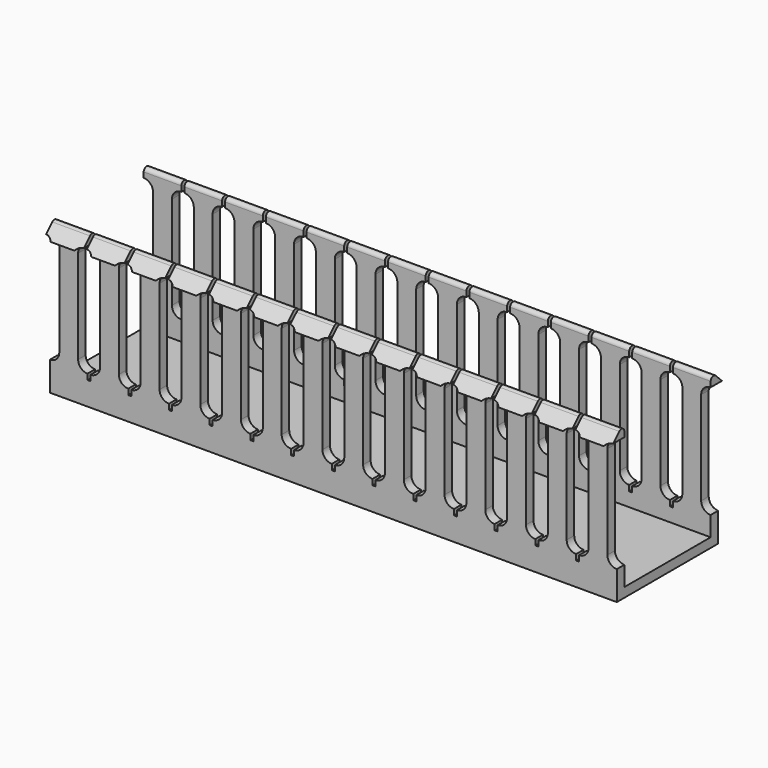
from build123d import *

# Parameters (mm, degrees)
F0_W      = 42.672
F0_H      = 3.175
F1_DEPTH  = 191.008
F2_W      = 191.008
F2_H      = 3.175
F3_DEPTH  = 4.699
F5_DEPTH  = 3.175
F7_DEPTH  = 191.008
F8_DEPTH  = 191.009
F10_DEPTH = 5.8176
F12_DEPTH = 5.8176


with BuildPart() as f1:
    # F0 (on Right) → F1 (new body)
    with BuildSketch(Plane.YZ):
        Rectangle(F0_W, F0_H)
    extrude(amount=-F1_DEPTH)

    # F2 (on face) → F3 (join)
    with BuildSketch(Plane.XY.offset(1.5875)):
        with Locations((-95.504, 19.7485)):
            Rectangle(F2_W, F2_H)
        with Locations((-95.504, -19.7485)):
            Rectangle(F2_W, F2_H)
    extrude(amount=F3_DEPTH)

    # F4 (on face) → F5 (join)
    with BuildSketch(Plane.XZ.offset(21.336)):
        with BuildLine():
            Line((-9.525, 42.8625), (-9.525, 11.3665))
            ThreePointArc((-9.525, 11.3665), (-10.454936, 9.121436), (-12.7, 8.1915))
            Line((-12.7, 8.1915), (-12.7, 6.2865))
            Line((-12.7, 6.2865), (0, 6.2865))
            Line((0, 6.2865), (0, 8.1915))
            ThreePointArc((0, 8.1915), (-2.245064, 9.121436), (-3.175, 11.3665))
            Line((-3.175, 11.3665), (-3.175, 42.8625))
            ThreePointArc((-3.175, 42.8625), (-2.245064, 45.107564), (0, 46.0375))
            Line((0, 46.0375), (0, 49.2125))
            Line((0, 49.2125), (-12.7, 49.2125))
            Line((-12.7, 49.2125), (-12.7, 46.0375))
            ThreePointArc((-12.7, 46.0375), (-10.454936, 45.107564), (-9.525, 42.8625))
        make_face()
        with BuildLine():
            Line((-26.416, 6.2865), (-13.716, 6.2865))
            Line((-13.716, 6.2865), (-13.716, 8.1915))
            ThreePointArc((-13.716, 8.1915), (-15.961064, 9.121436), (-16.891, 11.3665))
            Line((-16.891, 11.3665), (-16.891, 42.8625))
            ThreePointArc((-16.891, 42.8625), (-15.961064, 45.107564), (-13.716, 46.0375))
            Line((-13.716, 46.0375), (-13.716, 49.2125))
            Line((-13.716, 49.2125), (-26.416, 49.2125))
            Line((-26.416, 49.2125), (-26.416, 46.0375))
            ThreePointArc((-26.416, 46.0375), (-24.170936, 45.107564), (-23.241, 42.8625))
            Line((-23.241, 42.8625), (-23.241, 11.3665))
            ThreePointArc((-23.241, 11.3665), (-24.170936, 9.121436), (-26.416, 8.1915))
            Line((-26.416, 8.1915), (-26.416, 6.2865))
        make_face()
        with BuildLine():
            Line((-40.132, 6.2865), (-27.432, 6.2865))
            Line((-27.432, 6.2865), (-27.432, 8.1915))
            ThreePointArc((-27.432, 8.1915), (-29.677064, 9.121436), (-30.607, 11.3665))
            Line((-30.607, 11.3665), (-30.607, 42.8625))
            ThreePointArc((-30.607, 42.8625), (-29.677064, 45.107564), (-27.432, 46.0375))
            Line((-27.432, 46.0375), (-27.432, 49.2125))
            Line((-27.432, 49.2125), (-40.132, 49.2125))
            Line((-40.132, 49.2125), (-40.132, 46.0375))
            ThreePointArc((-40.132, 46.0375), (-37.886936, 45.107564), (-36.957, 42.8625))
            Line((-36.957, 42.8625), (-36.957, 11.3665))
            ThreePointArc((-36.957, 11.3665), (-37.886936, 9.121436), (-40.132, 8.1915))
            Line((-40.132, 8.1915), (-40.132, 6.2865))
        make_face()
        with BuildLine():
            Line((-53.848, 6.2865), (-41.148, 6.2865))
            Line((-41.148, 6.2865), (-41.148, 8.1915))
            ThreePointArc((-41.148, 8.1915), (-43.393064, 9.121436), (-44.323, 11.3665))
            Line((-44.323, 11.3665), (-44.323, 42.8625))
            ThreePointArc((-44.323, 42.8625), (-43.393064, 45.107564), (-41.148, 46.0375))
            Line((-41.148, 46.0375), (-41.148, 49.2125))
            Line((-41.148, 49.2125), (-53.848, 49.2125))
            Line((-53.848, 49.2125), (-53.848, 46.0375))
            ThreePointArc((-53.848, 46.0375), (-51.602936, 45.107564), (-50.673, 42.8625))
            Line((-50.673, 42.8625), (-50.673, 11.3665))
            ThreePointArc((-50.673, 11.3665), (-51.602936, 9.121436), (-53.848, 8.1915))
            Line((-53.848, 8.1915), (-53.848, 6.2865))
        make_face()
        with BuildLine():
            Line((-67.564, 6.2865), (-54.864, 6.2865))
            Line((-54.864, 6.2865), (-54.864, 8.1915))
            ThreePointArc((-54.864, 8.1915), (-57.109064, 9.121436), (-58.039, 11.3665))
            Line((-58.039, 11.3665), (-58.039, 42.8625))
            ThreePointArc((-58.039, 42.8625), (-57.109064, 45.107564), (-54.864, 46.0375))
            Line((-54.864, 46.0375), (-54.864, 49.2125))
            Line((-54.864, 49.2125), (-67.564, 49.2125))
            Line((-67.564, 49.2125), (-67.564, 46.0375))
            ThreePointArc((-67.564, 46.0375), (-65.318936, 45.107564), (-64.389, 42.8625))
            Line((-64.389, 42.8625), (-64.389, 11.3665))
            ThreePointArc((-64.389, 11.3665), (-65.318936, 9.121436), (-67.564, 8.1915))
            Line((-67.564, 8.1915), (-67.564, 6.2865))
        make_face()
        with BuildLine():
            Line((-81.28, 6.2865), (-68.58, 6.2865))
            Line((-68.58, 6.2865), (-68.58, 8.1915))
            ThreePointArc((-68.58, 8.1915), (-70.825064, 9.121436), (-71.755, 11.3665))
            Line((-71.755, 11.3665), (-71.755, 42.8625))
            ThreePointArc((-71.755, 42.8625), (-70.825064, 45.107564), (-68.58, 46.0375))
            Line((-68.58, 46.0375), (-68.58, 49.2125))
            Line((-68.58, 49.2125), (-81.28, 49.2125))
            Line((-81.28, 49.2125), (-81.28, 46.0375))
            ThreePointArc((-81.28, 46.0375), (-79.034936, 45.107564), (-78.105, 42.8625))
            Line((-78.105, 42.8625), (-78.105, 11.3665))
            ThreePointArc((-78.105, 11.3665), (-79.034936, 9.121436), (-81.28, 8.1915))
            Line((-81.28, 8.1915), (-81.28, 6.2865))
        make_face()
        with BuildLine():
            Line((-94.996, 6.2865), (-82.296, 6.2865))
            Line((-82.296, 6.2865), (-82.296, 8.1915))
            ThreePointArc((-82.296, 8.1915), (-84.541064, 9.121436), (-85.471, 11.3665))
            Line((-85.471, 11.3665), (-85.471, 42.8625))
            ThreePointArc((-85.471, 42.8625), (-84.541064, 45.107564), (-82.296, 46.0375))
            Line((-82.296, 46.0375), (-82.296, 49.2125))
            Line((-82.296, 49.2125), (-94.996, 49.2125))
            Line((-94.996, 49.2125), (-94.996, 46.0375))
            ThreePointArc((-94.996, 46.0375), (-92.750936, 45.107564), (-91.821, 42.8625))
            Line((-91.821, 42.8625), (-91.821, 11.3665))
            ThreePointArc((-91.821, 11.3665), (-92.750936, 9.121436), (-94.996, 8.1915))
            Line((-94.996, 8.1915), (-94.996, 6.2865))
        make_face()
        with BuildLine():
            Line((-108.712, 6.2865), (-96.012, 6.2865))
            Line((-96.012, 6.2865), (-96.012, 8.1915))
            ThreePointArc((-96.012, 8.1915), (-98.257064, 9.121436), (-99.187, 11.3665))
            Line((-99.187, 11.3665), (-99.187, 42.8625))
            ThreePointArc((-99.187, 42.8625), (-98.257064, 45.107564), (-96.012, 46.0375))
            Line((-96.012, 46.0375), (-96.012, 49.2125))
            Line((-96.012, 49.2125), (-108.712, 49.2125))
            Line((-108.712, 49.2125), (-108.712, 46.0375))
            ThreePointArc((-108.712, 46.0375), (-106.466936, 45.107564), (-105.537, 42.8625))
            Line((-105.537, 42.8625), (-105.537, 11.3665))
            ThreePointArc((-105.537, 11.3665), (-106.466936, 9.121436), (-108.712, 8.1915))
            Line((-108.712, 8.1915), (-108.712, 6.2865))
        make_face()
        with BuildLine():
            Line((-122.428, 8.1915), (-122.428, 6.2865))
            Line((-122.428, 6.2865), (-109.728, 6.2865))
            Line((-109.728, 6.2865), (-109.728, 8.1915))
            ThreePointArc((-109.728, 8.1915), (-111.973064, 9.121436), (-112.903, 11.3665))
            Line((-112.903, 11.3665), (-112.903, 42.8625))
            ThreePointArc((-112.903, 42.8625), (-111.973064, 45.107564), (-109.728, 46.0375))
            Line((-109.728, 46.0375), (-109.728, 49.2125))
            Line((-109.728, 49.2125), (-122.428, 49.2125))
            Line((-122.428, 49.2125), (-122.428, 46.0375))
            ThreePointArc((-122.428, 46.0375), (-120.182936, 45.107564), (-119.253, 42.8625))
            Line((-119.253, 42.8625), (-119.253, 11.3665))
            ThreePointArc((-119.253, 11.3665), (-120.182936, 9.121436), (-122.428, 8.1915))
        make_face()
        with BuildLine():
            Line((-136.144, 8.1915), (-136.144, 6.2865))
            Line((-136.144, 6.2865), (-123.444, 6.2865))
            Line((-123.444, 6.2865), (-123.444, 8.1915))
            ThreePointArc((-123.444, 8.1915), (-125.689064, 9.121436), (-126.619, 11.3665))
            Line((-126.619, 11.3665), (-126.619, 42.8625))
            ThreePointArc((-126.619, 42.8625), (-125.689064, 45.107564), (-123.444, 46.0375))
            Line((-123.444, 46.0375), (-123.444, 49.2125))
            Line((-123.444, 49.2125), (-136.144, 49.2125))
            Line((-136.144, 49.2125), (-136.144, 46.0375))
            ThreePointArc((-136.144, 46.0375), (-133.898936, 45.107564), (-132.969, 42.8625))
            Line((-132.969, 42.8625), (-132.969, 11.3665))
            ThreePointArc((-132.969, 11.3665), (-133.898936, 9.121436), (-136.144, 8.1915))
        make_face()
        with BuildLine():
            Line((-149.86, 8.1915), (-149.86, 6.2865))
            Line((-149.86, 6.2865), (-137.16, 6.2865))
            Line((-137.16, 6.2865), (-137.16, 8.1915))
            ThreePointArc((-137.16, 8.1915), (-139.405064, 9.121436), (-140.335, 11.3665))
            Line((-140.335, 11.3665), (-140.335, 42.8625))
            ThreePointArc((-140.335, 42.8625), (-139.405064, 45.107564), (-137.16, 46.0375))
            Line((-137.16, 46.0375), (-137.16, 49.2125))
            Line((-137.16, 49.2125), (-149.86, 49.2125))
            Line((-149.86, 49.2125), (-149.86, 46.0375))
            ThreePointArc((-149.86, 46.0375), (-147.614936, 45.107564), (-146.685, 42.8625))
            Line((-146.685, 42.8625), (-146.685, 11.3665))
            ThreePointArc((-146.685, 11.3665), (-147.614936, 9.121436), (-149.86, 8.1915))
        make_face()
        with BuildLine():
            Line((-163.576, 8.1915), (-163.576, 6.2865))
            Line((-163.576, 6.2865), (-150.876, 6.2865))
            Line((-150.876, 6.2865), (-150.876, 8.1915))
            ThreePointArc((-150.876, 8.1915), (-153.121064, 9.121436), (-154.051, 11.3665))
            Line((-154.051, 11.3665), (-154.051, 42.8625))
            ThreePointArc((-154.051, 42.8625), (-153.121064, 45.107564), (-150.876, 46.0375))
            Line((-150.876, 46.0375), (-150.876, 49.2125))
            Line((-150.876, 49.2125), (-163.576, 49.2125))
            Line((-163.576, 49.2125), (-163.576, 46.0375))
            ThreePointArc((-163.576, 46.0375), (-161.330936, 45.107564), (-160.401, 42.8625))
            Line((-160.401, 42.8625), (-160.401, 11.3665))
            ThreePointArc((-160.401, 11.3665), (-161.330936, 9.121436), (-163.576, 8.1915))
        make_face()
        with BuildLine():
            Line((-177.292, 8.1915), (-177.292, 6.2865))
            Line((-177.292, 6.2865), (-164.592, 6.2865))
            Line((-164.592, 6.2865), (-164.592, 8.1915))
            ThreePointArc((-164.592, 8.1915), (-166.837064, 9.121436), (-167.767, 11.3665))
            Line((-167.767, 11.3665), (-167.767, 42.8625))
            ThreePointArc((-167.767, 42.8625), (-166.837064, 45.107564), (-164.592, 46.0375))
            Line((-164.592, 46.0375), (-164.592, 49.2125))
            Line((-164.592, 49.2125), (-177.292, 49.2125))
            Line((-177.292, 49.2125), (-177.292, 46.0375))
            ThreePointArc((-177.292, 46.0375), (-175.046936, 45.107564), (-174.117, 42.8625))
            Line((-174.117, 42.8625), (-174.117, 11.3665))
            ThreePointArc((-174.117, 11.3665), (-175.046936, 9.121436), (-177.292, 8.1915))
        make_face()
        with BuildLine():
            Line((-191.008, 8.1915), (-191.008, 6.2865))
            Line((-191.008, 6.2865), (-178.308, 6.2865))
            Line((-178.308, 6.2865), (-178.308, 8.1915))
            ThreePointArc((-178.308, 8.1915), (-180.553064, 9.121436), (-181.483, 11.3665))
            Line((-181.483, 11.3665), (-181.483, 42.8625))
            ThreePointArc((-181.483, 42.8625), (-180.553064, 45.107564), (-178.308, 46.0375))
            Line((-178.308, 46.0375), (-178.308, 49.2125))
            Line((-178.308, 49.2125), (-191.008, 49.2125))
            Line((-191.008, 49.2125), (-191.008, 46.0375))
            ThreePointArc((-191.008, 46.0375), (-188.762936, 45.107564), (-187.833, 42.8625))
            Line((-187.833, 42.8625), (-187.833, 11.3665))
            ThreePointArc((-187.833, 11.3665), (-188.762936, 9.121436), (-191.008, 8.1915))
        make_face()
    extrude(amount=-F5_DEPTH)

    # F6 (on face) → F7 (join)
    with BuildSketch(Plane.YZ):
        Polygon((-21.336, 47.625), (-23.9776, 44.9834), (-21.336, 44.9834), (-21.336, 46.0375), align=None)
    extrude(amount=-F7_DEPTH)

    # F6 (on face) → F8 (cut, through all)
    with BuildSketch(Plane.YZ):
        with BuildLine():
            Line((-21.336, 49.2125), (-21.336, 47.625))
            Line((-21.336, 47.625), (-20.323891, 48.637109))
            ThreePointArc((-20.323891, 48.637109), (-18.993102, 48.933075), (-18.161, 47.853166))
            Line((-18.161, 47.853166), (-18.161, 49.2125))
            Line((-18.161, 49.2125), (-21.336, 49.2125))
        make_face()
    extrude(amount=-F8_DEPTH, mode=Mode.SUBTRACT)

    # F9 (on face) → F10 (cut, through all)
    with BuildSketch(Plane(origin=(0, -18.161, 0), x_dir=(-1, 0, 0), z_dir=(0, 1, 0))):
        with BuildLine():
            Line((0, 42.8625), (3.175, 42.8625))
            ThreePointArc((3.175, 42.8625), (2.245064, 45.107564), (0, 46.0375))
            Line((0, 46.0375), (0, 42.8625))
        make_face()
        with BuildLine():
            ThreePointArc((12.7, 46.0375), (10.454936, 45.107564), (9.525, 42.8625))
            Line((9.525, 42.8625), (12.7, 42.8625))
            Line((12.7, 42.8625), (12.7, 46.0375))
        make_face()
    extrude(amount=-F10_DEPTH, mode=Mode.SUBTRACT)

    # F11 (on face) → F12 (cut, through all)
    with BuildSketch(Plane(origin=(0, -18.161, 0), x_dir=(-1, 0, 0), z_dir=(0, 1, 0))):
        with BuildLine():
            ThreePointArc((191.008, 46.0375), (188.762936, 45.107564), (187.833, 42.8625))
            Line((187.833, 42.8625), (191.008, 42.8625))
            Line((191.008, 42.8625), (191.008, 46.0375))
        make_face()
        with BuildLine():
            Line((174.117, 42.8625), (181.483, 42.8625))
            ThreePointArc((181.483, 42.8625), (180.553064, 45.107564), (178.308, 46.0375))
            Line((178.308, 46.0375), (178.308, 47.853166))
            Line((178.308, 47.853166), (177.292, 47.853166))
            Line((177.292, 47.853166), (177.292, 46.0375))
            ThreePointArc((177.292, 46.0375), (175.046936, 45.107564), (174.117, 42.8625))
        make_face()
        with BuildLine():
            Line((160.401, 42.8625), (167.767, 42.8625))
            ThreePointArc((167.767, 42.8625), (166.837064, 45.107564), (164.592, 46.0375))
            Line((164.592, 46.0375), (164.592, 47.853166))
            Line((164.592, 47.853166), (163.576, 47.853166))
            Line((163.576, 47.853166), (163.576, 46.0375))
            ThreePointArc((163.576, 46.0375), (161.330936, 45.107564), (160.401, 42.8625))
        make_face()
        with BuildLine():
            Line((146.685, 42.8625), (154.051, 42.8625))
            ThreePointArc((154.051, 42.8625), (153.121064, 45.107564), (150.876, 46.0375))
            Line((150.876, 46.0375), (150.876, 47.853166))
            Line((150.876, 47.853166), (149.86, 47.853166))
            Line((149.86, 47.853166), (149.86, 46.0375))
            ThreePointArc((149.86, 46.0375), (147.614936, 45.107564), (146.685, 42.8625))
        make_face()
        with BuildLine():
            Line((132.969, 42.8625), (140.335, 42.8625))
            ThreePointArc((140.335, 42.8625), (139.405064, 45.107564), (137.16, 46.0375))
            Line((137.16, 46.0375), (137.16, 47.853166))
            Line((137.16, 47.853166), (136.144, 47.853166))
            Line((136.144, 47.853166), (136.144, 46.0375))
            ThreePointArc((136.144, 46.0375), (133.898936, 45.107564), (132.969, 42.8625))
        make_face()
        with BuildLine():
            Line((123.444, 46.0375), (123.444, 47.853166))
            Line((123.444, 47.853166), (122.428, 47.853166))
            Line((122.428, 47.853166), (122.428, 46.0375))
            ThreePointArc((122.428, 46.0375), (120.182936, 45.107564), (119.253, 42.8625))
            Line((119.253, 42.8625), (126.619, 42.8625))
            ThreePointArc((126.619, 42.8625), (125.689064, 45.107564), (123.444, 46.0375))
        make_face()
        with BuildLine():
            Line((105.537, 42.8625), (112.903, 42.8625))
            ThreePointArc((112.903, 42.8625), (111.973064, 45.107564), (109.728, 46.0375))
            Line((109.728, 46.0375), (109.728, 47.853166))
            Line((109.728, 47.853166), (108.712, 47.853166))
            Line((108.712, 47.853166), (108.712, 46.0375))
            ThreePointArc((108.712, 46.0375), (106.466936, 45.107564), (105.537, 42.8625))
        make_face()
        with BuildLine():
            Line((91.821, 42.8625), (99.187, 42.8625))
            ThreePointArc((99.187, 42.8625), (98.257064, 45.107564), (96.012, 46.0375))
            Line((96.012, 46.0375), (96.012, 47.853166))
            Line((96.012, 47.853166), (94.996, 47.853166))
            Line((94.996, 47.853166), (94.996, 46.0375))
            ThreePointArc((94.996, 46.0375), (92.750936, 45.107564), (91.821, 42.8625))
        make_face()
        with BuildLine():
            Line((78.105, 42.8625), (85.471, 42.8625))
            ThreePointArc((85.471, 42.8625), (84.541064, 45.107564), (82.296, 46.0375))
            Line((82.296, 46.0375), (82.296, 47.853166))
            Line((82.296, 47.853166), (81.28, 47.853166))
            Line((81.28, 47.853166), (81.28, 46.0375))
            ThreePointArc((81.28, 46.0375), (79.034936, 45.107564), (78.105, 42.8625))
        make_face()
        with BuildLine():
            Line((64.389, 42.8625), (71.755, 42.8625))
            ThreePointArc((71.755, 42.8625), (70.825064, 45.107564), (68.58, 46.0375))
            Line((68.58, 46.0375), (68.58, 47.853166))
            Line((68.58, 47.853166), (67.564, 47.853166))
            Line((67.564, 47.853166), (67.564, 46.0375))
            ThreePointArc((67.564, 46.0375), (65.318936, 45.107564), (64.389, 42.8625))
        make_face()
        with BuildLine():
            Line((50.673, 42.8625), (58.039, 42.8625))
            ThreePointArc((58.039, 42.8625), (57.109064, 45.107564), (54.864, 46.0375))
            Line((54.864, 46.0375), (54.864, 47.853166))
            Line((54.864, 47.853166), (53.848, 47.853166))
            Line((53.848, 47.853166), (53.848, 46.0375))
            ThreePointArc((53.848, 46.0375), (51.602936, 45.107564), (50.673, 42.8625))
        make_face()
        with BuildLine():
            Line((36.957, 42.8625), (44.323, 42.8625))
            ThreePointArc((44.323, 42.8625), (43.393064, 45.107564), (41.148, 46.0375))
            Line((41.148, 46.0375), (41.148, 47.853166))
            Line((41.148, 47.853166), (40.132, 47.853166))
            Line((40.132, 47.853166), (40.132, 46.0375))
            ThreePointArc((40.132, 46.0375), (37.886936, 45.107564), (36.957, 42.8625))
        make_face()
        with BuildLine():
            Line((23.241, 42.8625), (30.607, 42.8625))
            ThreePointArc((30.607, 42.8625), (29.677064, 45.107564), (27.432, 46.0375))
            Line((27.432, 46.0375), (27.432, 47.853166))
            Line((27.432, 47.853166), (26.416, 47.853166))
            Line((26.416, 47.853166), (26.416, 46.0375))
            ThreePointArc((26.416, 46.0375), (24.170936, 45.107564), (23.241, 42.8625))
        make_face()
        with BuildLine():
            Line((12.7, 42.8625), (16.891, 42.8625))
            ThreePointArc((16.891, 42.8625), (15.961064, 45.107564), (13.716, 46.0375))
            Line((13.716, 46.0375), (13.716, 47.853166))
            Line((13.716, 47.853166), (12.7, 47.853166))
            Line((12.7, 47.853166), (12.7, 46.0375))
            Line((12.7, 46.0375), (12.7, 42.8625))
        make_face()
        with BuildLine():
            ThreePointArc((191.008, 46.0375), (188.762936, 45.107564), (187.833, 42.8625))
            Line((187.833, 42.8625), (191.008, 42.8625))
            Line((191.008, 42.8625), (191.008, 46.0375))
        make_face()
        with BuildLine():
            Line((178.308, 46.0375), (178.308, 47.853166))
            Line((178.308, 47.853166), (177.292, 47.853166))
            Line((177.292, 47.853166), (177.292, 46.0375))
            ThreePointArc((177.292, 46.0375), (175.046936, 45.107564), (174.117, 42.8625))
            Line((174.117, 42.8625), (181.483, 42.8625))
            ThreePointArc((181.483, 42.8625), (180.553064, 45.107564), (178.308, 46.0375))
        make_face()
        with BuildLine():
            Line((164.592, 46.0375), (164.592, 47.853166))
            Line((164.592, 47.853166), (163.576, 47.853166))
            Line((163.576, 47.853166), (163.576, 46.0375))
            ThreePointArc((163.576, 46.0375), (161.330936, 45.107564), (160.401, 42.8625))
            Line((160.401, 42.8625), (167.767, 42.8625))
            ThreePointArc((167.767, 42.8625), (166.837064, 45.107564), (164.592, 46.0375))
        make_face()
        with BuildLine():
            Line((150.876, 46.0375), (150.876, 47.853166))
            Line((150.876, 47.853166), (149.86, 47.853166))
            Line((149.86, 47.853166), (149.86, 46.0375))
            ThreePointArc((149.86, 46.0375), (147.614936, 45.107564), (146.685, 42.8625))
            Line((146.685, 42.8625), (154.051, 42.8625))
            ThreePointArc((154.051, 42.8625), (153.121064, 45.107564), (150.876, 46.0375))
        make_face()
        with BuildLine():
            Line((137.16, 46.0375), (137.16, 47.853166))
            Line((137.16, 47.853166), (136.144, 47.853166))
            Line((136.144, 47.853166), (136.144, 46.0375))
            ThreePointArc((136.144, 46.0375), (133.898936, 45.107564), (132.969, 42.8625))
            Line((132.969, 42.8625), (140.335, 42.8625))
            ThreePointArc((140.335, 42.8625), (139.405064, 45.107564), (137.16, 46.0375))
        make_face()
    extrude(amount=-F12_DEPTH, mode=Mode.SUBTRACT)

    # F13: F1 across plane


with BuildPart() as f1_1:
    add(f1.part)
    add(f1.part.mirror(Plane.XZ))


solid = f1_1.part
